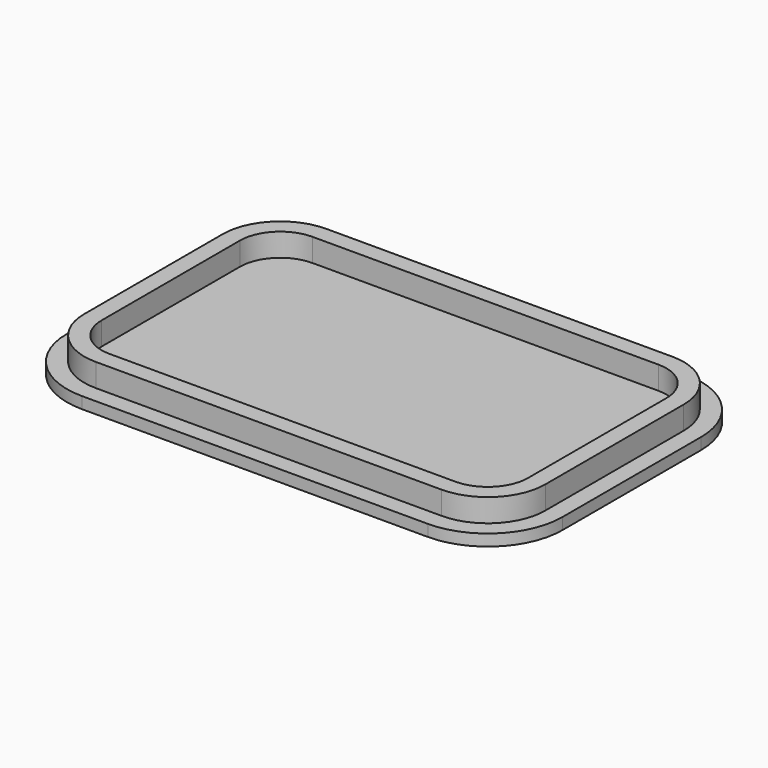
from build123d import *

# Parameters (mm, degrees)
PAD_DEPTH    = 2
PAD001_DEPTH = 6
POCKET_DEPTH = 5


with BuildPart() as part:
    # Sketch001 → Pad (new body)
    with BuildSketch(Plane.XY):
        with BuildLine():
            Line((-43, 15), (-43, -15))
            ThreePointArc((-43, -15), (-39.192388, -24.192388), (-30, -28))
            Line((-30, -28), (30, -28))
            ThreePointArc((30, -28), (39.192388, -24.192388), (43, -15))
            Line((43, -15), (43, 15))
            ThreePointArc((43, 15), (39.192388, 24.192388), (30, 28))
            Line((30, 28), (-30, 28))
            ThreePointArc((-30, 28), (-39.192388, 24.192388), (-43, 15))
        make_face()
    extrude(amount=PAD_DEPTH)

    # Sketch004 → Pad001 (join)
    with BuildSketch(Plane.XY):
        with BuildLine():
            Line((-40, 15), (-40, -15))
            ThreePointArc((-40, -15), (-37.071068, -22.071068), (-30, -25))
            Line((-30, -25), (30, -25))
            ThreePointArc((30, -25), (37.071068, -22.071068), (40, -15))
            Line((40, -15), (40, 15))
            ThreePointArc((40, 15), (37.071068, 22.071068), (30, 25))
            Line((30, 25), (-30, 25))
            ThreePointArc((-30, 25), (-37.071068, 22.071068), (-40, 15))
        make_face()
    extrude(amount=PAD001_DEPTH)

    # Sketch005 → Pocket (cut)
    with BuildSketch(Plane.XY.offset(2)):
        with BuildLine():
            Line((-37, 15), (-37, -15))
            ThreePointArc((-37, -15), (-34.949747, -19.949747), (-30, -22))
            Line((-30, -22), (30, -22))
            ThreePointArc((30, -22), (34.949747, -19.949747), (37, -15))
            Line((37, -15), (37, 15))
            ThreePointArc((37, 15), (34.949747, 19.949747), (30, 22))
            Line((30, 22), (-30, 22))
            ThreePointArc((-30, 22), (-34.949747, 19.949747), (-37, 15))
        make_face()
    extrude(amount=POCKET_DEPTH, mode=Mode.SUBTRACT)


solid = part.part
